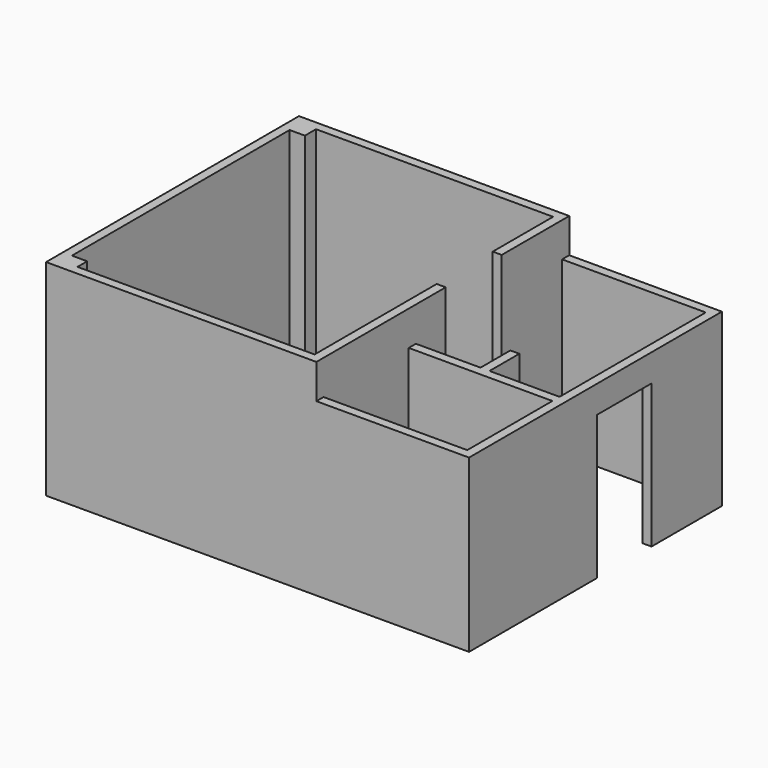
from build123d import *

# Parameters (mm, degrees)
F0_W     = 127
F0_H     = 1066.8
F0_W_2   = 215.9
F0_H_2   = 171.45
F0_H_3   = 196.85
F1_DEPTH = 2908.3
F0_H_4   = 527.05
F2_DEPTH = 2419.35
F3_W     = 127
F3_H     = 387.35
F4_DEPTH = 965.2


with BuildPart() as f1:
    # F0 (on Top) → F1 (new body)
    with BuildSketch(Plane.XY):
        Polygon((-3695.7, 2711.541673), (-3695.7, 2908.391673), (-3479.8, 2908.391673), (-127, 2908.391673), (0, 2908.391673), (0, 3035.391673), (-3822.7, 3035.391673), (-3822.7, -1435.008327), (0, -1435.008327), (0, -1308.008327), (-127, -1308.008327), (-3479.8, -1308.008327), (-3695.7, -1308.008327), (-3695.7, -1136.558327), align=None)
        Polygon((0, 850.991673), (-127, 850.991673), (-127, -1308.008327), (0, -1308.008327), (0, 196.941673), (0, 323.941673), align=None)
        with Locations((-63.5, 2374.991673)):
            Rectangle(F0_W, F0_H)
        with Locations((-3587.75, -1222.283327)):
            Rectangle(F0_W_2, F0_H_2)
        with Locations((-3587.75, 2809.966673)):
            Rectangle(F0_W_2, F0_H_3)
    extrude(amount=F1_DEPTH)

    # F0 (on Top) → F2 (join)
    with BuildSketch(Plane.XY):
        Polygon((0, 3035.391673), (0, 2908.391673), (2032, 2908.391673), (2032, 1790.791673), (2159, 1790.791673), (2159, 3035.391673), align=None)
        with Locations((977.9, 587.466673)):
            Rectangle(F0_W, F0_H_4)
        Polygon((914.4, 323.941673), (0, 323.941673), (0, 196.941673), (2032, 196.941673), (2032, 323.941673), (1041.4, 323.941673), align=None)
        Polygon((2032, -1308.008327), (0, -1308.008327), (0, -1435.008327), (2159, -1435.008327), (2159, 825.591673), (2032, 825.591673), (2032, 323.941673), (2032, 196.941673), align=None)
    extrude(amount=F2_DEPTH)

    # F3 (on face) → F4 (join)
    with BuildSketch(Plane.XZ.offset(-1790.791673)):
        with Locations((2095.5, 2225.675)):
            Rectangle(F3_W, F3_H)
    extrude(amount=F4_DEPTH)


solid = f1.part
